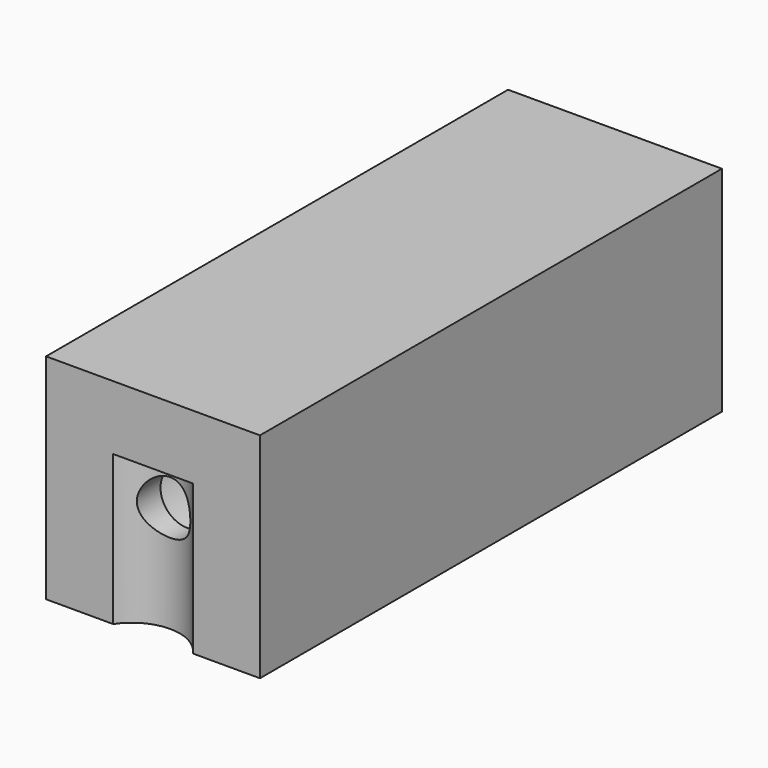
from build123d import *

# Parameters (mm, degrees)
F0_W      = 10
F0_H      = 10
F1_DEPTH  = 27
F2_R      = 1.25
F3_DEPTH  = 25
F4_R      = 2.235
F5_DEPTH  = 25
F6_DEPTH  = 2
F7_R      = 3.35
F8_DEPTH  = 25
F9_R      = 4.5
F10_DEPTH = 2


with BuildPart() as f1:
    # F0 (on Front) → F1 (new body)
    with BuildSketch(Plane.XZ):
        Rectangle(F0_W, F0_H)
    extrude(amount=-F1_DEPTH)

    # F2 (on face) → F3 (cut)
    with BuildSketch(Plane.XZ):
        Circle(F2_R)
    extrude(amount=-F3_DEPTH, mode=Mode.SUBTRACT)

    # F4 (on Top) → F5 (cut)
    with BuildSketch(Plane.XY):
        with Locations((0, -1.235)):
            Circle(F4_R)
    extrude(amount=-F5_DEPTH, mode=Mode.SUBTRACT)

    # F4 (on Top) → F6 (cut)
    with BuildSketch(Plane.XY):
        with Locations((0, -1.235)):
            Circle(F4_R)
    extrude(amount=F6_DEPTH, mode=Mode.SUBTRACT)

    # F7 (on face) → F8 (cut)
    with BuildSketch(Plane(origin=(0, 27, 0), x_dir=(-1, 0, 0), z_dir=(0, 1, 0))):
        Circle(F7_R)
    extrude(amount=-F8_DEPTH, mode=Mode.SUBTRACT)

    # F9 (on face) → F10 (cut)
    with BuildSketch(Plane(origin=(0, 27, 0), x_dir=(-1, 0, 0), z_dir=(0, 1, 0))):
        Circle(F9_R)
    extrude(amount=-F10_DEPTH, mode=Mode.SUBTRACT)


solid = f1.part
